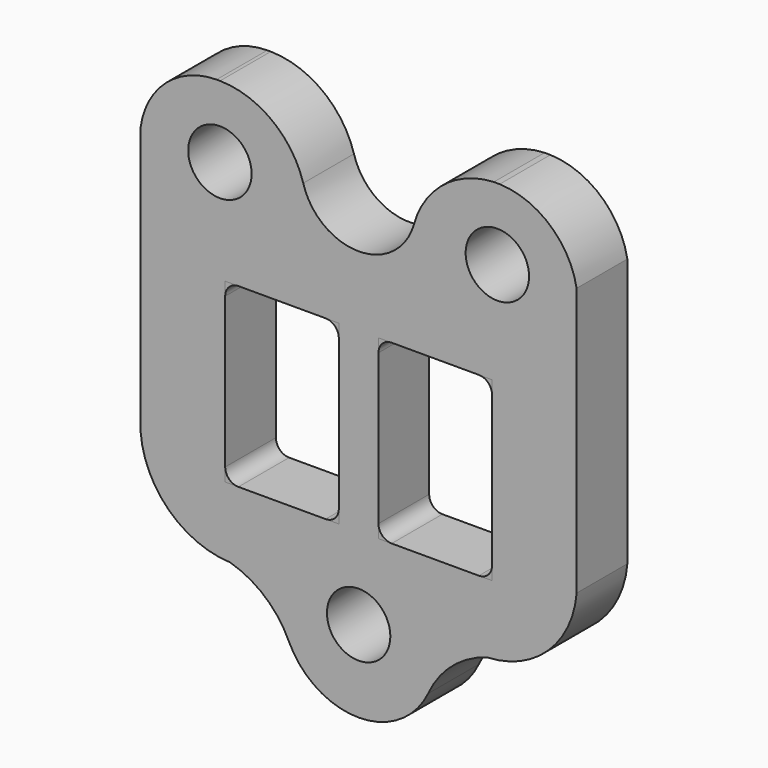
from build123d import *

# Parameters (mm, degrees)
F6_DEPTH = 12
F4_R     = 6
F4_W     = 21.5
F4_H     = 33.45
F3_W     = 21.5
F3_H     = 33.45
F3_R     = 6


with BuildPart() as f6:
    # F5 (on face) → F6 (new body)
    with BuildSketch(Plane.XZ):
        with BuildLine():
            Line((25.25, 15.715), (22.75, 15.715))
            ThreePointArc((22.75, 15.715), (24.5174373747, 14.9824373747), (25.25, 13.215))
            Line((25.25, 13.215), (25.25, 15.715))
        make_face()
    extrude(amount=-F6_DEPTH)


with BuildPart() as f6b:
    # F5 (on face) → F6, piece 2 (new body)
    with BuildSketch(Plane.XZ):
        with BuildLine():
            ThreePointArc((3.75, 13.215), (4.4825626253, 14.9824373747), (6.25, 15.715))
            Line((6.25, 15.715), (3.75, 15.715))
            Line((3.75, 15.715), (3.75, 13.215))
        make_face()
    extrude(amount=-F6_DEPTH)


with BuildPart() as f6c:
    # F5 (on face) → F6, piece 3 (new body)
    with BuildSketch(Plane.XZ):
        with BuildLine():
            Line((25.25, -17.735), (25.25, -15.235))
            ThreePointArc((25.25, -15.235), (24.5174373747, -17.0024373747), (22.75, -17.735))
            Line((22.75, -17.735), (25.25, -17.735))
        make_face()
    extrude(amount=-F6_DEPTH)


with BuildPart() as f6d:
    # F5 (on face) → F6, piece 4 (new body)
    with BuildSketch(Plane.XZ):
        with BuildLine():
            ThreePointArc((6.25, -17.735), (4.4825626253, -17.0024373747), (3.75, -15.235))
            Line((3.75, -15.235), (3.75, -17.735))
            Line((3.75, -17.735), (6.25, -17.735))
        make_face()
    extrude(amount=-F6_DEPTH)


with BuildPart() as f6e:
    # F4 (on face) → F6, piece 5 (new body)
    with BuildSketch(Plane.XZ):
        with BuildLine():
            ThreePointArc((-41.25, -14.607), (-35.8674022278, -25.9207231501), (-24.337, -30.822))
            ThreePointArc((-24.337, -30.822), (-17.6753424514, -34.4258801724), (-13.1401661783, -40.492))
            ThreePointArc((-13.1401661783, -40.492), (-7.7638565745, -46.5245050412), (-9.43185e-05, -48.765))
            ThreePointArc((-9.43185e-05, -48.765), (7.7636899207, -46.5244912019), (13.14, -40.4919531523))
            ThreePointArc((13.14, -40.4919531523), (17.6755802004, -34.4261199153), (24.3369212747, -30.8216288686))
            ThreePointArc((24.3369212747, -30.8216288686), (35.8680052264, -25.921153722), (41.25, -14.606796205))
            Line((41.25, -14.606796205), (41.25, 36.165))
            ThreePointArc((41.25, 36.165), (36.1986202104, 45.0433137098), (26.686, 48.765))
            Line((26.686, 48.765), (25.5774514153, 48.765))
            ThreePointArc((25.5774514153, 48.765), (16.1031746077, 45.24501144), (10.481, 36.846))
            ThreePointArc((10.481, 36.846), (0.0002400088, 28.896512173), (-10.4806832969, 36.8457846785))
            ThreePointArc((-10.4806832969, 36.8457846785), (-16.3890913636, 45.3926785372), (-26.2169155617, 48.765))
            Line((-26.2169155617, 48.765), (-26.6445539892, 48.765))
            Line((-26.6445539892, 48.765), (-26.6858417388, 48.765))
            Line((-26.6858417388, 48.765), (-26.8851875879, 48.765))
            ThreePointArc((-26.8851875879, 48.765), (-36.4145684312, 45.1407024127), (-41.25, 36.165))
            Line((-41.25, 36.165), (-41.25, -14.607))
        make_face()
        Polygon((-25.25, 15.715), (-22.75, 15.715), (-6.25, 15.715), (-3.75, 15.715), (-3.75, 13.215), (-3.75, -15.235), (-3.75, -17.735), (-6.25, -17.735), (-22.75, -17.735), (-25.25, -17.735), (-25.25, -15.235), (-25.25, 13.215), align=None, mode=Mode.SUBTRACT)
        with Locations((0, -33.285)):
            Circle(F4_R, mode=Mode.SUBTRACT)
        with Locations((14.5, -1.01)):
            Rectangle(F4_W, F4_H, mode=Mode.SUBTRACT)
        with Locations((-26.2487990011, 35.215)):
            Circle(F4_R, mode=Mode.SUBTRACT)
        with Locations((26.2487990011, 35.215)):
            Circle(F4_R, mode=Mode.SUBTRACT)
        with BuildLine():
            Line((-3.75, -17.735), (-3.75, -15.235))
            ThreePointArc((-3.75, -15.235), (-4.4825626253, -17.0024373747), (-6.25, -17.735))
            Line((-6.25, -17.735), (-3.75, -17.735))
        make_face()
        with BuildLine():
            Line((-3.75, 15.715), (-6.25, 15.715))
            ThreePointArc((-6.25, 15.715), (-4.4825626253, 14.9824373747), (-3.75, 13.215))
            Line((-3.75, 13.215), (-3.75, 15.715))
        make_face()
        with BuildLine():
            ThreePointArc((-25.25, 13.215), (-24.517766953, 14.982766953), (-22.75, 15.715))
            Line((-22.75, 15.715), (-25.25, 15.715))
            Line((-25.25, 15.715), (-25.25, 13.215))
        make_face()
        with BuildLine():
            ThreePointArc((-22.75, -17.735), (-24.517766953, -17.002766953), (-25.25, -15.235))
            Line((-25.25, -15.235), (-25.25, -17.735))
            Line((-25.25, -17.735), (-22.75, -17.735))
        make_face()
    extrude(amount=-F6_DEPTH)


with BuildPart() as f6f:
    # F3 (on face) → F6, piece 6 (new body)
    with BuildSketch(Plane.XZ):
        with BuildLine():
            ThreePointArc((-24.337, -30.822), (-17.6753424514, -34.4258801724), (-13.1401661783, -40.492))
            ThreePointArc((-13.1401661783, -40.492), (-7.7638565745, -46.5245050412), (-9.43185e-05, -48.765))
            ThreePointArc((-9.43185e-05, -48.765), (7.7636899207, -46.5244912019), (13.14, -40.4919531523))
            ThreePointArc((13.14, -40.4919531523), (17.6755802004, -34.4261199153), (24.3369212747, -30.8216288686))
            ThreePointArc((24.3369212747, -30.8216288686), (35.8680052264, -25.921153722), (41.25, -14.606796205))
            Line((41.25, -14.606796205), (41.25, 36.165))
            ThreePointArc((41.25, 36.165), (36.1986202104, 45.0433137098), (26.686, 48.765))
            Line((26.686, 48.765), (25.5774514153, 48.765))
            ThreePointArc((25.5774514153, 48.765), (16.1031746077, 45.24501144), (10.481, 36.846))
            ThreePointArc((10.481, 36.846), (0.0002400088, 28.896512173), (-10.4806832969, 36.8457846785))
            ThreePointArc((-10.4806832969, 36.8457846785), (-16.3890913636, 45.3926785372), (-26.2169155617, 48.765))
            Line((-26.2169155617, 48.765), (-26.6445539892, 48.765))
            Line((-26.6445539892, 48.765), (-26.6858417388, 48.765))
            Line((-26.6858417388, 48.765), (-26.8851875879, 48.765))
            ThreePointArc((-26.8851875879, 48.765), (-36.4145684312, 45.1407024127), (-41.25, 36.165))
            Line((-41.25, 36.165), (-41.25, -14.607))
            ThreePointArc((-41.25, -14.607), (-35.8674022278, -25.9207231501), (-24.337, -30.822))
        make_face()
        with Locations((-14.5, -1.01)):
            Rectangle(F3_W, F3_H, mode=Mode.SUBTRACT)
        with Locations((0, -33.285)):
            Circle(F3_R, mode=Mode.SUBTRACT)
        with Locations((14.5, -1.01)):
            Rectangle(F3_W, F3_H, mode=Mode.SUBTRACT)
        with Locations((-26.2487990011, 35.215)):
            Circle(F3_R, mode=Mode.SUBTRACT)
        with Locations((26.2487990011, 35.215)):
            Circle(F3_R, mode=Mode.SUBTRACT)
    extrude(amount=-F6_DEPTH)


solid = Compound([f6.part, f6b.part, f6c.part, f6d.part, f6e.part, f6f.part])
